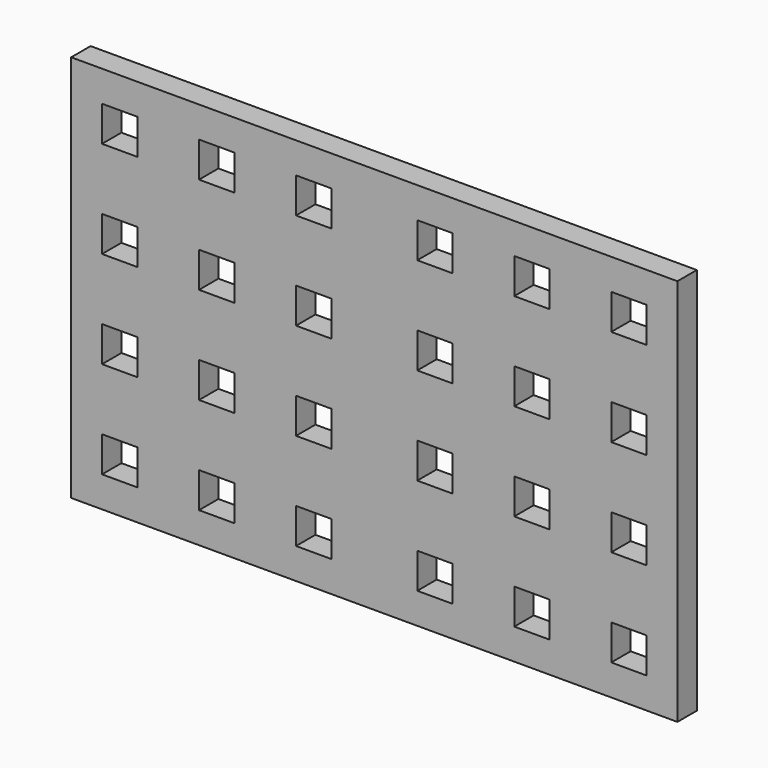
from build123d import *

# Parameters (mm, degrees)
F0_W     = 4.6228
F0_H     = 4.6228
F1_DEPTH = 3.175


with BuildPart() as f1:
    # F0 (on Front) → F1 (new body)
    with BuildSketch(Plane.XZ):
        Polygon((-2.011181, 18.956908), (-41.698681, 18.956908), (-41.698681, -31.843092), (37.676319, -31.843092), (37.676319, 18.956908), align=None)
        with Locations((-35.348681, -25.493092)):
            Rectangle(F0_W, F0_H, mode=Mode.SUBTRACT)
        with Locations((-22.648681, -25.493092)):
            Rectangle(F0_W, F0_H, mode=Mode.SUBTRACT)
        with Locations((-9.948681, -25.493092)):
            Rectangle(F0_W, F0_H, mode=Mode.SUBTRACT)
        with Locations((-35.348681, -12.793092)):
            Rectangle(F0_W, F0_H, mode=Mode.SUBTRACT)
        with Locations((-22.648681, -12.793092)):
            Rectangle(F0_W, F0_H, mode=Mode.SUBTRACT)
        with Locations((-9.948681, -12.793092)):
            Rectangle(F0_W, F0_H, mode=Mode.SUBTRACT)
        with Locations((5.926319, -25.493092)):
            Rectangle(F0_W, F0_H, mode=Mode.SUBTRACT)
        with Locations((18.626319, -25.493092)):
            Rectangle(F0_W, F0_H, mode=Mode.SUBTRACT)
        with Locations((31.326319, -25.493092)):
            Rectangle(F0_W, F0_H, mode=Mode.SUBTRACT)
        with Locations((5.926319, -12.793092)):
            Rectangle(F0_W, F0_H, mode=Mode.SUBTRACT)
        with Locations((18.626319, -12.793092)):
            Rectangle(F0_W, F0_H, mode=Mode.SUBTRACT)
        with Locations((31.326319, -12.793092)):
            Rectangle(F0_W, F0_H, mode=Mode.SUBTRACT)
        with Locations((-35.348681, -0.093092)):
            Rectangle(F0_W, F0_H, mode=Mode.SUBTRACT)
        with Locations((-22.648681, -0.093092)):
            Rectangle(F0_W, F0_H, mode=Mode.SUBTRACT)
        with Locations((-9.948681, -0.093092)):
            Rectangle(F0_W, F0_H, mode=Mode.SUBTRACT)
        with Locations((-35.348681, 12.606908)):
            Rectangle(F0_W, F0_H, mode=Mode.SUBTRACT)
        with Locations((-22.648681, 12.606908)):
            Rectangle(F0_W, F0_H, mode=Mode.SUBTRACT)
        with Locations((-9.948681, 12.606908)):
            Rectangle(F0_W, F0_H, mode=Mode.SUBTRACT)
        with Locations((5.926319, -0.093092)):
            Rectangle(F0_W, F0_H, mode=Mode.SUBTRACT)
        with Locations((18.626319, -0.093092)):
            Rectangle(F0_W, F0_H, mode=Mode.SUBTRACT)
        with Locations((31.326319, -0.093092)):
            Rectangle(F0_W, F0_H, mode=Mode.SUBTRACT)
        with Locations((5.926319, 12.606908)):
            Rectangle(F0_W, F0_H, mode=Mode.SUBTRACT)
        with Locations((18.626319, 12.606908)):
            Rectangle(F0_W, F0_H, mode=Mode.SUBTRACT)
        with Locations((31.326319, 12.606908)):
            Rectangle(F0_W, F0_H, mode=Mode.SUBTRACT)
    extrude(amount=F1_DEPTH)


solid = f1.part
